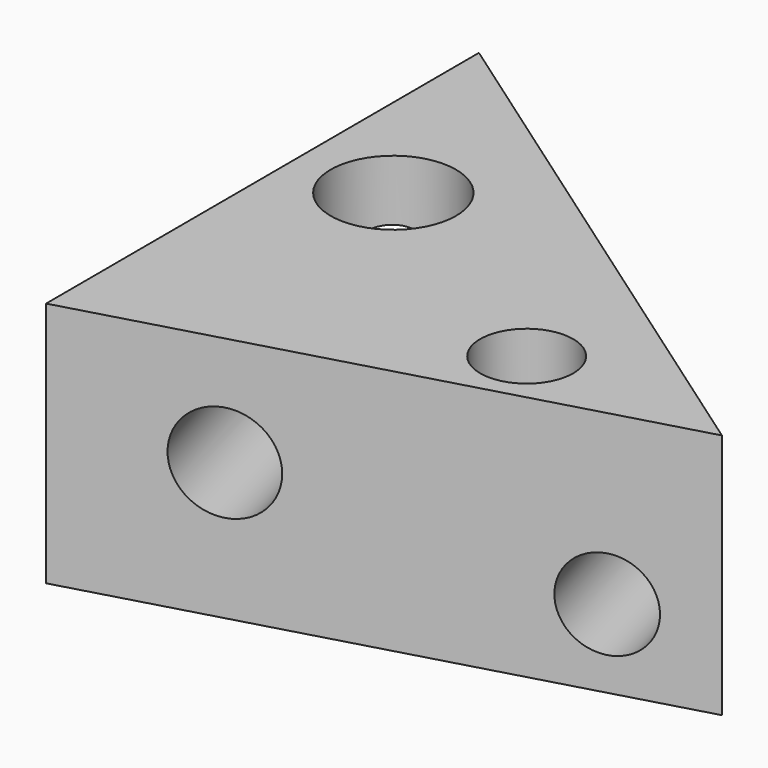
from build123d import *

# Parameters (mm, degrees)
F1_DEPTH = 37.846
F2_R     = 7.4693971268
F3_DEPTH = 80.2441237786
F4_R     = 7.1391458969
F5_DEPTH = 37.847
F6_R     = 6.8840617495
F7_DEPTH = 80.2441237786
F8_R     = 9.6297626658
F9_DEPTH = 37.847


with BuildPart() as f1:
    # F0 (on Top) → F1 (new body)
    with BuildSketch(Plane.XY):
        Polygon((-67.0226588845, 34.8154716194), (-66.8756216764, -48.5164038837), (17.8625807166, -24.6178079396), align=None)
    extrude(amount=F1_DEPTH)

    # F2 (on face) → F3 (cut, through all)
    with BuildSketch(Plane(origin=(7.7474819604, -27.4705550039, 0), x_dir=(0.9624553813, 0.2714399364, 0), z_dir=(0.2714399364, -0.9624553813, 0))):
        with Locations((-54.2420856655, 21.0362523794)):
            Circle(F2_R)
    extrude(amount=-F3_DEPTH, mode=Mode.SUBTRACT)

    # F4 (on face) → F5 (cut, through all)
    with BuildSketch(Plane.XY.offset(37.846)):
        with Locations((-13.3007261902, -23.1652185321)):
            Circle(F4_R)
    extrude(amount=-F5_DEPTH, mode=Mode.SUBTRACT)

    # F6 (on face) → F7 (cut, through all)
    with BuildSketch(Plane(origin=(7.7474819604, -27.4705550039, 0), x_dir=(0.9624553813, 0.2714399364, 0), z_dir=(0.2714399364, -0.9624553813, 0))):
        with Locations((-4.4350521639, 11.9895972311)):
            Circle(F6_R)
    extrude(amount=-F7_DEPTH, mode=Mode.SUBTRACT)

    # F8 (on face) → F9 (cut, through all)
    with BuildSketch(Plane.XY.offset(37.846)):
        with Locations((-52.3273982108, 0)):
            Circle(F8_R)
    extrude(amount=-F9_DEPTH, mode=Mode.SUBTRACT)


solid = f1.part
